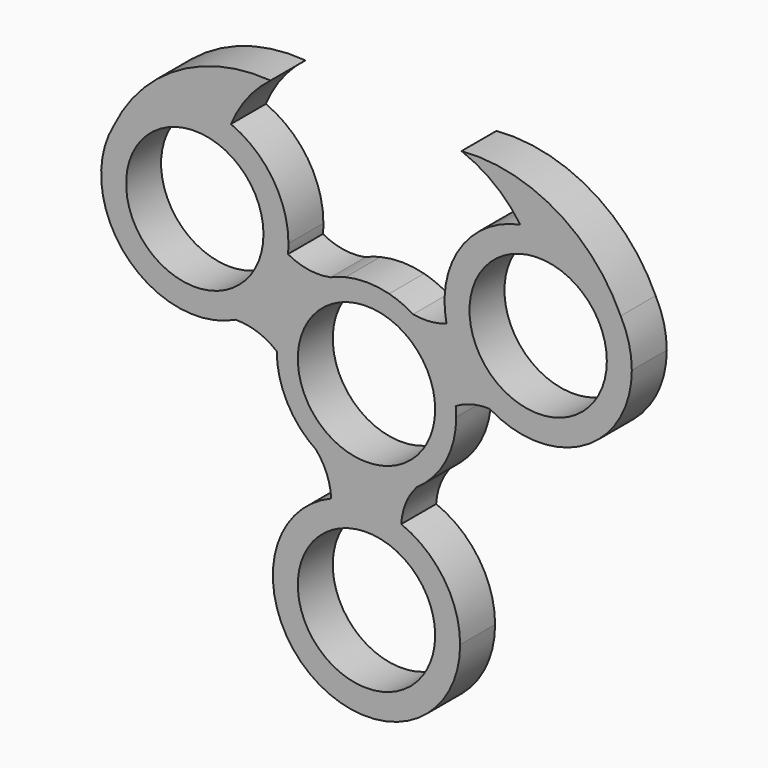
from build123d import *

# Parameters (mm, degrees)
F0_R     = 11.176
F1_DEPTH = 7.112


with BuildPart() as f1:
    # F0 (on Front) → F1 (new body)
    with BuildSketch(Plane.XZ):
        with BuildLine():
            ThreePointArc((8.2087205691, -12.0798564403), (12.9072535598, -6.8343858937), (14.605, 0))
            ThreePointArc((14.605, 0), (14.5836934609, 0.7886127296), (14.51983601, 1.57492452))
            ThreePointArc((14.51983601, 1.57492452), (12.3282210206, 7.8307720862), (7.5971217395, 12.4735626938))
            ThreePointArc((7.5971217395, 12.4735626938), (5.5527816289, 13.0973627133), (3.6830382693, 14.1329846143))
            ThreePointArc((3.6830382693, 14.1329846143), (0.134040948, 14.6043848903), (-3.4230109197, 14.1982048599))
            ThreePointArc((-3.4230109197, 14.1982048599), (-4.6036529114, 13.7181112894), (-5.8348963879, 13.3888016321))
            ThreePointArc((-5.8348963879, 13.3888016321), (-12.2311535609, 7.9815354143), (-14.6049121942, -0.0506438495))
            ThreePointArc((-14.6049121942, -0.0506438495), (-12.8953847889, -6.8567540532), (-8.2087205691, -12.0798564403))
            ThreePointArc((-8.2087205691, -12.0798564403), (0, -14.605), (8.2087205691, -12.0798564403))
        make_face()
        Circle(F0_R, mode=Mode.SUBTRACT)
        with BuildLine():
            ThreePointArc((7.5971217395, 12.4735626938), (12.3282210206, 7.8307720862), (14.51983601, 1.57492452))
            ThreePointArc((14.51983601, 1.57492452), (17.1790458557, 2.6683948539), (20.037648893, 2.9773658069))
            ThreePointArc((20.037648893, 2.9773658069), (15.4974728132, 7.2084360861), (13.0206344132, 12.8988162214))
            ThreePointArc((13.0206344132, 12.8988162214), (10.3377129515, 12.3184410429), (7.5971217395, 12.4735626938))
        make_face()
        with BuildLine():
            ThreePointArc((5.6525165498, -18.2320265791), (6.414889264, -14.9416578881), (8.2087205691, -12.0798564403))
            ThreePointArc((8.2087205691, -12.0798564403), (0, -14.605), (-8.2087205691, -12.0798564403))
            ThreePointArc((-8.2087205691, -12.0798564403), (-6.4570050812, -14.9674321775), (-5.7427962807, -18.2684178755))
            ThreePointArc((-5.7427962807, -18.2684178755), (-0.0486691798, -17.1450777131), (5.6525165498, -18.2320265791))
        make_face()
        with BuildLine():
            ThreePointArc((3.6830382693, 14.1329846143), (5.5527816289, 13.0973627133), (7.5971217395, 12.4735626938))
            ThreePointArc((7.5971217395, 12.4735626938), (5.7007826422, 13.4464531482), (3.6830382693, 14.1329846143))
        make_face()
        with BuildLine():
            ThreePointArc((13.0206344132, 12.8988162214), (15.4974728132, 7.2084360861), (20.037648893, 2.9773658069))
            ThreePointArc((20.037648893, 2.9773658069), (35.4174918632, 2.7290148056), (43.18, 16.0084995635))
            ThreePointArc((43.18, 16.0084995635), (42.7205978363, 19.7221941663), (41.3700882411, 23.2119938431))
            ThreePointArc((41.3700882411, 23.2119938431), (34.4783169272, 29.7746904585), (25.0370233017, 30.9694596359))
            ThreePointArc((25.0370233017, 30.9694596359), (15.2496095614, 24.4471955833), (13.0206344132, 12.8988162214))
        make_face()
        with Locations((27.94, 16.0084995635)):
            Circle(F0_R, mode=Mode.SUBTRACT)
        with BuildLine():
            ThreePointArc((15.24, -32.385), (12.6174869174, -23.8376832345), (5.6525165498, -18.2320265791))
            ThreePointArc((5.6525165498, -18.2320265791), (-0.0486691798, -17.1450777131), (-5.7427962807, -18.2684178755))
            ThreePointArc((-5.7427962807, -18.2684178755), (-8.5069790373, -45.0297185678), (15.24, -32.385))
        make_face()
        with Locations((0, -32.385)):
            Circle(F0_R, mode=Mode.SUBTRACT)
        with BuildLine():
            ThreePointArc((-21.3205264394, 2.2811484067), (-17.7532941256, 1.7184015486), (-14.6049121942, -0.0506438495))
            ThreePointArc((-14.6049121942, -0.0506438495), (-12.2311535609, 7.9815354143), (-5.8348963879, 13.3888016321))
            ThreePointArc((-5.8348963879, 13.3888016321), (-9.4016738346, 13.3055178964), (-12.779475025, 14.4541242929))
            ThreePointArc((-12.779475025, 14.4541242929), (-15.4645272821, 7.2552041574), (-21.3205264394, 2.2811484067))
        make_face()
        with BuildLine():
            ThreePointArc((-5.8348963879, 13.3888016321), (-4.6036529114, 13.7181112894), (-3.4230109197, 14.1982048599))
            ThreePointArc((-3.4230109197, 14.1982048599), (-4.6466111657, 13.8461196613), (-5.8348963879, 13.3888016321))
        make_face()
        with BuildLine():
            ThreePointArc((15.4630130269, 38.4055288773), (20.8206905893, 35.4222404623), (25.0370233017, 30.9694596359))
            ThreePointArc((25.0370233017, 30.9694596359), (34.4783169272, 29.7746904585), (41.3700882411, 23.2119938431))
            ThreePointArc((41.3700882411, 23.2119938431), (30.8283267328, 34.9211726358), (15.4630130269, 38.4055288773))
        make_face()
        with BuildLine():
            ThreePointArc((-41.1120736088, 23.6736203612), (-39.1267602964, 5.6589104861), (-21.3205264394, 2.2811484067))
            ThreePointArc((-21.3205264394, 2.2811484067), (-15.4645272821, 7.2552041574), (-12.779475025, 14.4541242929))
            ThreePointArc((-12.779475025, 14.4541242929), (-12.7198817248, 15.2302967041), (-12.7, 16.0084995635))
            ThreePointArc((-12.7, 16.0084995635), (-15.2540149252, 24.4538167678), (-22.0600239739, 30.0684953648))
            ThreePointArc((-22.0600239739, 30.0684953648), (-32.7894616574, 30.4563479027), (-41.1120736088, 23.6736203612))
        make_face()
        with Locations((-27.94, 16.0084995635)):
            Circle(F0_R, mode=Mode.SUBTRACT)
        with BuildLine():
            ThreePointArc((-15.6145964903, 38.4055288773), (-30.6463435403, 34.9909266583), (-41.1120736088, 23.6736203612))
            ThreePointArc((-41.1120736088, 23.6736203612), (-32.7894616574, 30.4563479027), (-22.0600239739, 30.0684953648))
            ThreePointArc((-22.0600239739, 30.0684953648), (-19.3902543974, 34.6644976906), (-15.6145964903, 38.4055288773))
        make_face()
    extrude(amount=F1_DEPTH)


solid = f1.part
